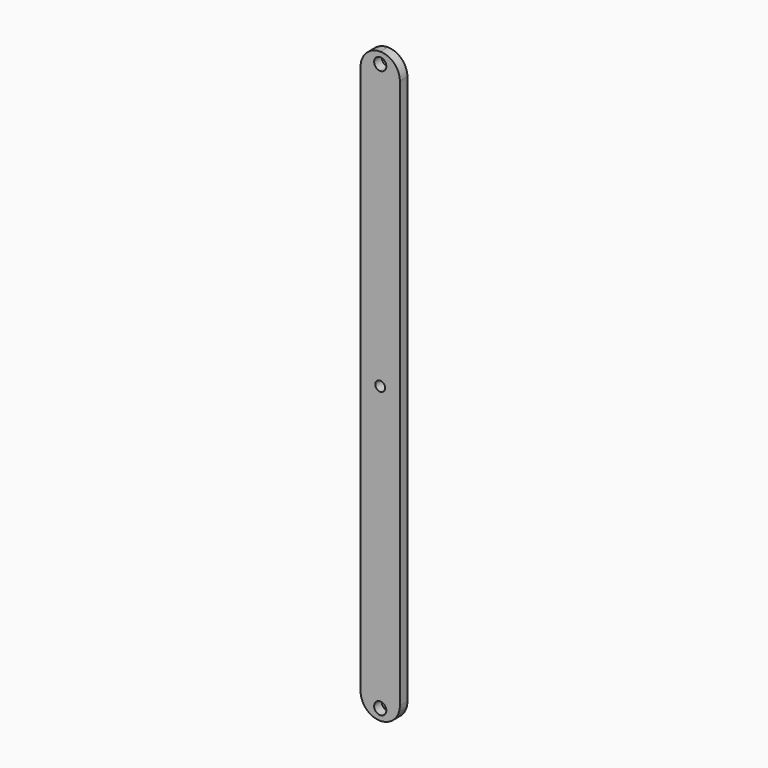
from build123d import *

# Parameters (mm, degrees)
F0_R     = 6.25
F0_R_2   = 7.75
F1_DEPTH = 12


with BuildPart() as f1:
    # F0 (on Front) → F1 (new body)
    with BuildSketch(Plane.XZ):
        with BuildLine():
            Line((0, -25), (0, -725))
            Line((0, -725), (50, -725))
            Line((50, -725), (50, -25))
            ThreePointArc((50, -25), (42.67767, -7.32233), (25, 0))
            ThreePointArc((25, 0), (7.32233, -7.32233), (0, -25))
        make_face()
        with Locations((25, -375)):
            Circle(F0_R, mode=Mode.SUBTRACT)
        with Locations((25, -14)):
            Circle(F0_R_2, mode=Mode.SUBTRACT)
        with BuildLine():
            Line((0, -25), (0, -725))
            Line((0, -725), (50, -725))
            Line((50, -725), (50, -25))
            ThreePointArc((50, -25), (42.67767, -7.32233), (25, 0))
            ThreePointArc((25, 0), (7.32233, -7.32233), (0, -25))
        make_face()
        with Locations((25, -375)):
            Circle(F0_R, mode=Mode.SUBTRACT)
        with Locations((25, -14)):
            Circle(F0_R_2, mode=Mode.SUBTRACT)
        with BuildLine():
            Line((50, -725), (0, -725))
            ThreePointArc((0, -725), (7.32233, -742.67767), (25, -750))
            ThreePointArc((25, -750), (42.67767, -742.67767), (50, -725))
        make_face()
        with Locations((25, -736)):
            Circle(F0_R_2, mode=Mode.SUBTRACT)
    extrude(amount=F1_DEPTH)


solid = f1.part
